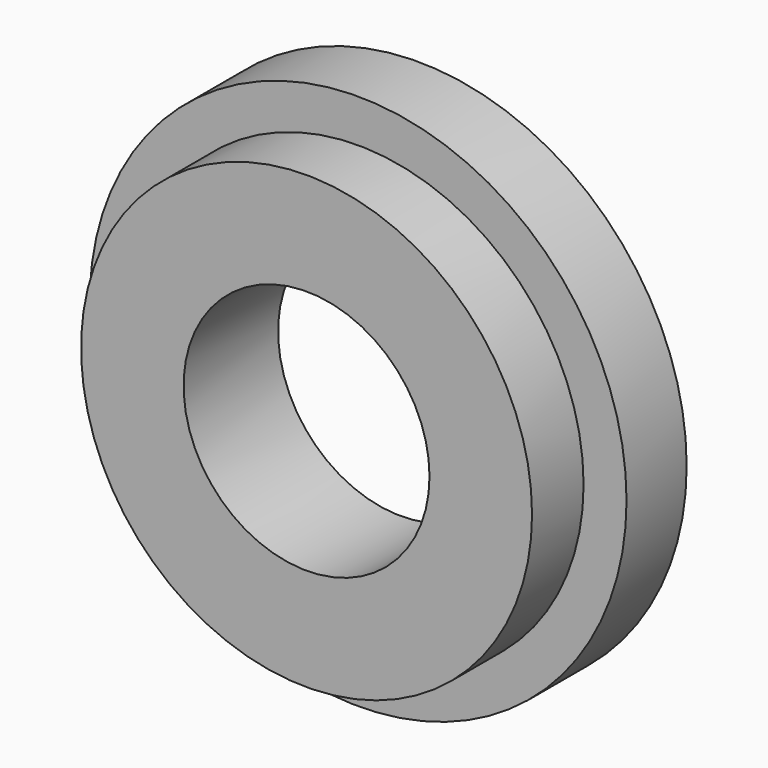
from build123d import *

# Parameters (mm, degrees)
F0_R     = 25
F0_R_2   = 11.45
F1_DEPTH = 13
F2_R     = 25
F2_R_2   = 21
F2_R_3   = 11.45
F3_DEPTH = 6
F4_R     = 21
F4_R_2   = 11.45
F5_DEPTH = 2


with BuildPart() as f1:
    # F0 (on Front) → F1 (new body)
    with BuildSketch(Plane.XZ):
        Circle(F0_R)
        Circle(F0_R_2, mode=Mode.SUBTRACT)
    extrude(amount=F1_DEPTH)

    # F2 (on face) → F3 (cut)
    with BuildSketch(Plane.XZ.offset(13)):
        Circle(F2_R)
        Circle(F2_R_2, mode=Mode.SUBTRACT)
        Circle(F2_R_3)
    extrude(amount=-F3_DEPTH, mode=Mode.SUBTRACT)

    # F4 (on face) → F5 (cut)
    with BuildSketch(Plane(origin=(0, 0, 0), x_dir=(-1, 0, 0), z_dir=(0, 1, 0))):
        Circle(F4_R)
        Circle(F4_R_2, mode=Mode.SUBTRACT)
        Circle(F4_R)
        Circle(F4_R_2, mode=Mode.SUBTRACT)
    extrude(amount=-F5_DEPTH, mode=Mode.SUBTRACT)


solid = f1.part
